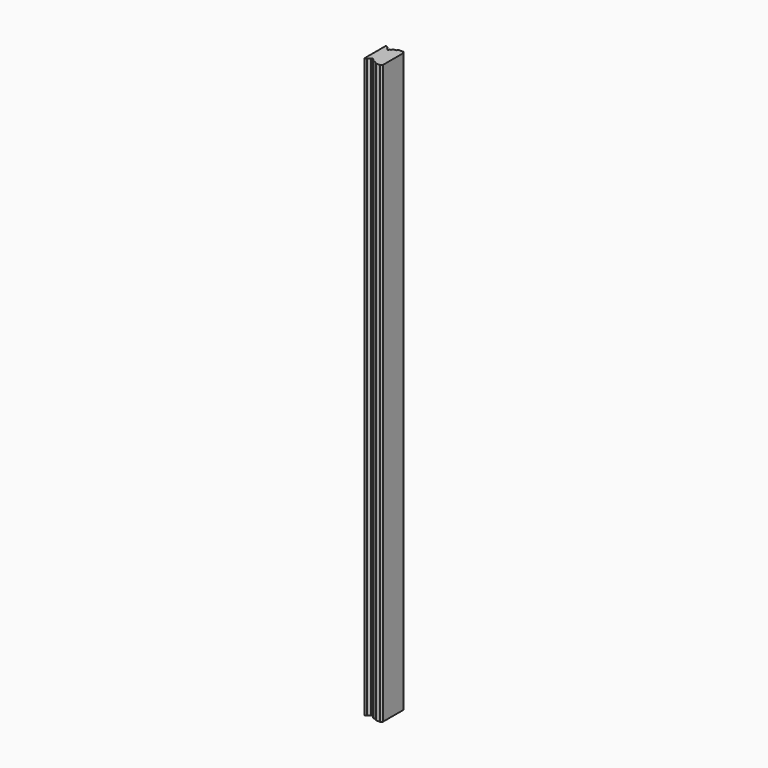
from build123d import *

# Parameters (mm, degrees)
F1_DEPTH = 300


with BuildPart() as f1:
    # F0 (on Top) → F1 (new body)
    with BuildSketch(Plane.XY):
        with BuildLine():
            ThreePointArc((-24.582661, 28.792453), (-25.274927, 29.20426), (-25.678825, 29.90117))
            Line((-25.678825, 29.90117), (-26.437133, 30.338979))
            ThreePointArc((-26.437133, 30.338979), (-26.737133, 30.338979), (-26.887133, 30.079171))
            Line((-26.887133, 30.079171), (-26.887133, 16.679171))
            ThreePointArc((-26.887133, 16.679171), (-26.737133, 16.419364), (-26.437133, 16.419364))
            Line((-26.437133, 16.419364), (-25.678825, 16.857173))
            ThreePointArc((-25.678825, 16.857173), (-25.274927, 17.554083), (-24.582661, 17.96589))
            ThreePointArc((-24.582661, 17.96589), (-24.137133, 18.479171), (-23.691605, 17.96589))
            ThreePointArc((-23.691605, 17.96589), (-22.954089, 17.506393), (-22.56551, 16.729171))
            Line((-22.56551, 16.729171), (-21.237133, 16.729171))
            Line((-21.237133, 16.729171), (-20.387133, 15.879171))
            Line((-20.387133, 15.879171), (-18.187133, 15.879171))
            Line((-18.187133, 15.879171), (-17.387133, 16.679171))
            Line((-17.387133, 16.679171), (-17.387133, 30.079171))
            Line((-17.387133, 30.079171), (-18.187133, 30.879171))
            Line((-18.187133, 30.879171), (-20.387133, 30.879171))
            Line((-20.387133, 30.879171), (-21.237133, 30.029171))
            Line((-21.237133, 30.029171), (-22.56551, 30.029171))
            ThreePointArc((-22.56551, 30.029171), (-22.954089, 29.25195), (-23.691605, 28.792453))
            ThreePointArc((-23.691605, 28.792453), (-24.137133, 28.279171), (-24.582661, 28.792453))
        make_face()
    extrude(amount=F1_DEPTH)


solid = f1.part
